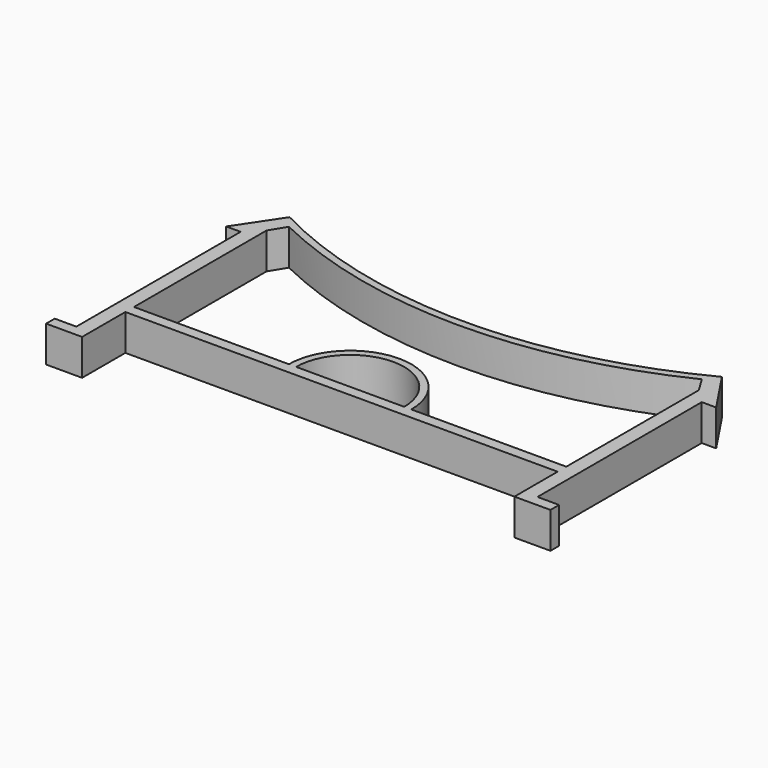
from build123d import *

# Parameters (mm, degrees)
F1_DEPTH = 10


with BuildPart() as f1:
    # F0 (on Top) → F1 (new body)
    with BuildSketch(Plane.XY):
        with BuildLine():
            Line((0, 15), (0, 0))
            Line((0, 0), (10, 0))
            Line((10, 0), (10, 3))
            Line((10, 3), (4, 3))
            Line((4, 3), (4, 60))
            Line((4, 60), (8, 60))
            Line((8, 60), (0, 72))
            ThreePointArc((0, 72), (-60, 57.325626), (-120, 72))
            Line((-120, 72), (-128, 60))
            Line((-128, 60), (-124, 60))
            Line((-124, 60), (-124, 3))
            Line((-124, 3), (-130, 3))
            Line((-130, 3), (-130, 0))
            Line((-130, 0), (-120, 0))
            Line((-120, 0), (-120, 15))
            Line((-120, 15), (-120, 18))
            Line((-120, 18), (-120, 60))
            Line((-120, 60), (-120, 64))
            Line((-120, 64), (-117.309005, 68.39129))
            ThreePointArc((-117.309005, 68.39129), (-60, 55.232971), (-2.690995, 68.39129))
            Line((-2.690995, 68.39129), (0, 64))
            Line((0, 64), (0, 60))
            Line((0, 60), (0, 18))
            Line((0, 18), (0, 15))
        make_face()
        Polygon((-120, 15), (0, 15), (0, 18), (-43, 18), (-45, 18), (-75, 18), (-77, 18), (-120, 18), align=None)
        with BuildLine():
            Line((-45, 18), (-43, 18))
            ThreePointArc((-43, 18), (-60, 35), (-77, 18))
            Line((-77, 18), (-75, 18))
            ThreePointArc((-75, 18), (-60, 33), (-45, 18))
        make_face()
    extrude(amount=F1_DEPTH)


solid = f1.part
